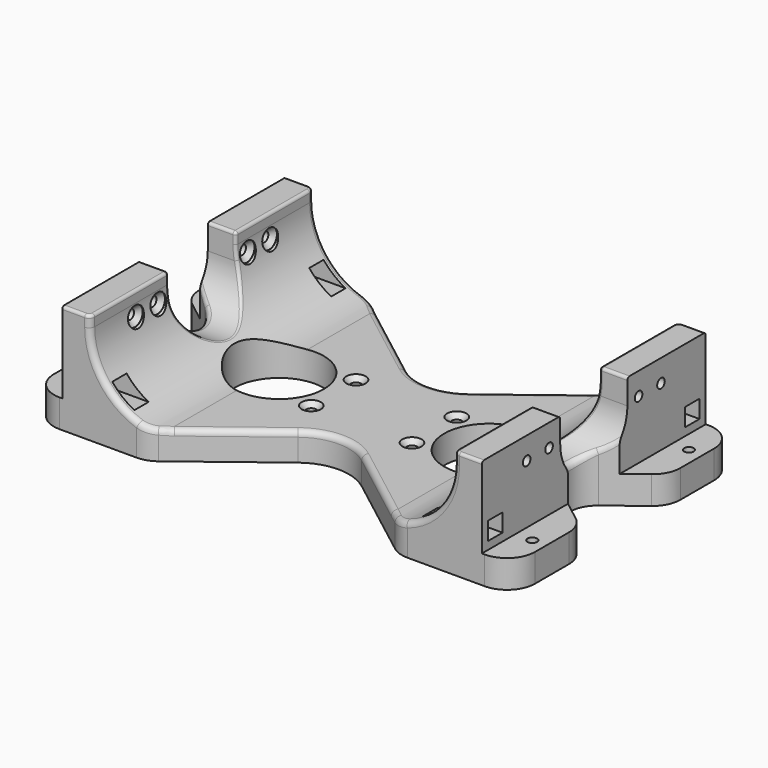
from build123d import *

# Parameters (mm, degrees)
SKETCH_R        = 16
PAD_DEPTH       = 39
SKETCH001_R     = 1.7
SKETCH001_W     = 6.4
SKETCH001_H     = 6.4
POCKET_DEPTH    = 172.001
SKETCH002_W     = 25
SKETCH002_H     = 35
POCKET001_DEPTH = 100
SKETCH003_R     = 1.7
POCKET002_DEPTH = 10.001
SKETCH004_R     = 1.75
POCKET003_DEPTH = 10.001
SKETCH006_R     = 3.5
POCKET005_DEPTH = 5
SKETCH007_R     = 3.5
POCKET006_DEPTH = 5
FILLET_R        = 10
FILLET001_R     = 10
FILLET002_R     = 10
FILLET003_R     = 10
FILLET004_R     = 10
FILLET005_R     = 10
FILLET006_R     = 10
FILLET007_R     = 10
FILLET008_R     = 1
FILLET009_R     = 1
FILLET010_R     = 10
FILLET011_R     = 10
FILLET012_R     = 10
FILLET013_R     = 10
FILLET014_R     = 2
FILLET015_R     = 2
FILLET016_R     = 1
FILLET017_R     = 1
FILLET018_R     = 1
FILLET019_R     = 1
FILLET020_R     = 2
FILLET021_R     = 2
CHAMFER_SIZE    = 1.7
CHAMFER001_SIZE = 1.7
CHAMFER002_SIZE = 1.7
CHAMFER003_SIZE = 1.7
CHAMFER004_SIZE = 1.7
CHAMFER005_SIZE = 1.7
CHAMFER006_SIZE = 1.7
CHAMFER007_SIZE = 1.7
CHAMFER008_SIZE = 1.7
CHAMFER009_SIZE = 1.7
CHAMFER010_SIZE = 1.7
CHAMFER011_SIZE = 1.7
CHAMFER012_SIZE = 1.7
CHAMFER013_SIZE = 1.7
CHAMFER014_SIZE = 1.7
CHAMFER015_SIZE = 1.7


with BuildPart() as part:
    # Sketch → Pad (new body)
    with BuildSketch(Plane.XY):
        with BuildLine():
            Line((-86, 50), (-45, 50))
            Line((-45, 50), (-11.364059, 24.19013))
            ThreePointArc((-11.364059, 24.19013), (0, 20.332539), (11.364059, 24.19013))
            Line((11.364059, 24.19013), (45, 50))
            Line((45, 50), (86, 50))
            Line((86, 50), (86, 20))
            Line((86, 20), (70.361359, 8))
            ThreePointArc((70.361359, 8), (66.416205, 0), (70.361359, -8))
            Line((70.361359, -8), (86, -20))
            Line((86, -20), (86, -50))
            Line((86, -50), (45, -50))
            Line((11.364059, -24.19013), (45, -50))
            ThreePointArc((11.364059, -24.19013), (0, -20.332539), (-11.364059, -24.19013))
            Line((-45, -50), (-11.364059, -24.19013))
            Line((-45, -50), (-86, -50))
            Line((-86, -50), (-86, -20))
            Line((-70.361359, -8), (-86, -20))
            ThreePointArc((-70.361359, -8), (-66.416205, 0), (-70.361359, 8))
            Line((-86, 20), (-70.361359, 8))
            Line((-86, 50), (-86, 20))
        make_face()
        with Locations((-37.5, 0)):
            Circle(SKETCH_R, mode=Mode.SUBTRACT)
        with Locations((37.5, 0)):
            Circle(SKETCH_R, mode=Mode.SUBTRACT)
    extrude(amount=PAD_DEPTH)

    # Sketch001 → Pocket (cut, through all)
    with BuildSketch(Plane(origin=(-86, 0, 0), x_dir=(0, -1, 0), z_dir=(-1, 0, 0))):
        with Locations((-30, 31)):
            Circle(SKETCH001_R)
        with Locations((30, 31)):
            Circle(SKETCH001_R)
        with Locations((20, 31)):
            Circle(SKETCH001_R)
        with Locations((-20, 31)):
            Circle(SKETCH001_R)
        with Locations((-44, 16)):
            Rectangle(SKETCH001_W, SKETCH001_H)
        with Locations((44, 16)):
            Rectangle(SKETCH001_W, SKETCH001_H)
        with BuildLine():
            ThreePointArc((15, 60), (0, 75), (-15, 60))
            Line((-15, 60), (-15, 30))
            ThreePointArc((-15, 30), (0, 15), (15, 30))
            Line((15, 60), (15, 30))
        make_face()
    extrude(amount=-POCKET_DEPTH, mode=Mode.SUBTRACT)

    # Sketch002 → Pocket001 (cut)
    with BuildSketch(Plane.XZ.offset(50)):
        with BuildLine():
            ThreePointArc((-65, 35), (-57.67767, 17.32233), (-40, 10))
            Line((-40, 10), (40, 10))
            ThreePointArc((40, 10), (57.67765, 17.322311), (65, 34.999944))
            Line((65, 40), (65, 34.999944))
            Line((-65, 40), (65, 40))
            Line((-65, 35), (-65, 40))
        make_face()
        with Locations((-87.5, 27.5)):
            Rectangle(SKETCH002_W, SKETCH002_H)
        with Locations((87.5, 27.5)):
            Rectangle(SKETCH002_W, SKETCH002_H)
    extrude(amount=-POCKET001_DEPTH, mode=Mode.SUBTRACT)

    # Sketch003 → Pocket002 (cut, through all)
    with BuildSketch(Plane.XY.offset(10)):
        with Locations((-81, 35)):
            Circle(SKETCH003_R)
        with Locations((-81, -35)):
            Circle(SKETCH003_R)
        with Locations((81, 35)):
            Circle(SKETCH003_R)
        with Locations((81, -35)):
            Circle(SKETCH003_R)
    extrude(amount=-POCKET002_DEPTH, mode=Mode.SUBTRACT)

    # Sketch004 → Pocket003 (cut, through all)
    with BuildSketch(Plane.XY.offset(10)):
        with Locations((-18, 10)):
            Circle(SKETCH004_R)
        with Locations((18, 10)):
            Circle(SKETCH004_R)
        with Locations((-18, -10)):
            Circle(SKETCH004_R)
        with Locations((18, -10)):
            Circle(SKETCH004_R)
    extrude(amount=-POCKET003_DEPTH, mode=Mode.SUBTRACT)

    # Sketch006 → Pocket005 (cut)
    with BuildSketch(Plane(origin=(65, 0, 0), x_dir=(0, -1, 0), z_dir=(-1, 0, 0))):
        with Locations((-30, 31)):
            Circle(SKETCH006_R)
        with Locations((-20, 31)):
            Circle(SKETCH006_R)
        with Locations((20, 31)):
            Circle(SKETCH006_R)
        with Locations((30, 31)):
            Circle(SKETCH006_R)
    extrude(amount=POCKET005_DEPTH, mode=Mode.SUBTRACT)

    # Sketch007 → Pocket006 (cut)
    with BuildSketch(Plane.YZ.offset(-65)):
        with Locations((-30, 31)):
            Circle(SKETCH007_R)
        with Locations((-20, 31)):
            Circle(SKETCH007_R)
        with Locations((20, 31)):
            Circle(SKETCH007_R)
        with Locations((30, 31)):
            Circle(SKETCH007_R)
    extrude(amount=POCKET006_DEPTH, mode=Mode.SUBTRACT)

    # Fillet
    fillet_edges = [part.edges().sort_by_distance(p)[0] for p in [
        (-86, -50, 5),
    ]]
    fillet(fillet_edges, radius=FILLET_R)

    # Fillet001
    fillet001_edges = [part.edges().sort_by_distance(p)[0] for p in [
        (-86, 50, 5),
    ]]
    fillet(fillet001_edges, radius=FILLET001_R)

    # Fillet002
    fillet002_edges = [part.edges().sort_by_distance(p)[0] for p in [
        (86, -50, 5),
    ]]
    fillet(fillet002_edges, radius=FILLET002_R)

    # Fillet003
    fillet003_edges = [part.edges().sort_by_distance(p)[0] for p in [
        (86, 50, 5),
    ]]
    fillet(fillet003_edges, radius=FILLET003_R)

    # Fillet004
    fillet004_edges = [part.edges().sort_by_distance(p)[0] for p in [
        (-86, -20, 5),
    ]]
    fillet(fillet004_edges, radius=FILLET004_R)

    # Fillet005
    fillet005_edges = [part.edges().sort_by_distance(p)[0] for p in [
        (-86, 20, 5),
    ]]
    fillet(fillet005_edges, radius=FILLET005_R)

    # Fillet006
    fillet006_edges = [part.edges().sort_by_distance(p)[0] for p in [
        (86, 20, 5),
    ]]
    fillet(fillet006_edges, radius=FILLET006_R)

    # Fillet007
    fillet007_edges = [part.edges().sort_by_distance(p)[0] for p in [
        (86, -20, 5),
    ]]
    fillet(fillet007_edges, radius=FILLET007_R)

    # Fillet008
    fillet008_edges = [part.edges().sort_by_distance(p)[0] for p in [
        (59.54778, -10.628413, 19.415255),
    ]]
    fillet(fillet008_edges, radius=FILLET008_R)

    # Fillet009
    fillet009_edges = [part.edges().sort_by_distance(p)[0] for p in [
        (-59.54778, -10.628413, 19.415255),
    ]]
    fillet(fillet009_edges, radius=FILLET009_R)

    # Fillet010
    fillet010_edges = [part.edges().sort_by_distance(p)[0] for p in [
        (45, 50, 5.252551),
    ]]
    fillet(fillet010_edges, radius=FILLET010_R)

    # Fillet011
    fillet011_edges = [part.edges().sort_by_distance(p)[0] for p in [
        (-45, 50, 5.252551),
    ]]
    fillet(fillet011_edges, radius=FILLET011_R)

    # Fillet012
    fillet012_edges = [part.edges().sort_by_distance(p)[0] for p in [
        (-45, -50, 5.252551),
    ]]
    fillet(fillet012_edges, radius=FILLET012_R)

    # Fillet013
    fillet013_edges = [part.edges().sort_by_distance(p)[0] for p in [
        (45, -50, 5.252551),
    ]]
    fillet(fillet013_edges, radius=FILLET013_R)

    # Fillet014
    fillet014_edges = [part.edges().sort_by_distance(p)[0] for p in [
        (0, -20.332539, 10),
    ]]
    fillet(fillet014_edges, radius=FILLET014_R)

    # Fillet015
    fillet015_edges = [part.edges().sort_by_distance(p)[0] for p in [
        (0, 20.332539, 10),
    ]]
    fillet(fillet015_edges, radius=FILLET015_R)

    # Fillet016
    fillet016_edges = [part.edges().sort_by_distance(p)[0] for p in [
        (65, 32, 39),
    ]]
    fillet(fillet016_edges, radius=FILLET016_R)

    # Fillet017
    fillet017_edges = [part.edges().sort_by_distance(p)[0] for p in [
        (65, -32, 39),
    ]]
    fillet(fillet017_edges, radius=FILLET017_R)

    # Fillet018
    fillet018_edges = [part.edges().sort_by_distance(p)[0] for p in [
        (-65, -32, 39),
    ]]
    fillet(fillet018_edges, radius=FILLET018_R)

    # Fillet019
    fillet019_edges = [part.edges().sort_by_distance(p)[0] for p in [
        (-65, 32, 39),
    ]]
    fillet(fillet019_edges, radius=FILLET019_R)

    # Fillet020
    fillet020_edges = [part.edges().sort_by_distance(p)[0] for p in [
        (-67.502964, -4.553707, 15.707913),
    ]]
    fillet(fillet020_edges, radius=FILLET020_R)

    # Fillet021
    fillet021_edges = [part.edges().sort_by_distance(p)[0] for p in [
        (66.416205, 0, 15),
    ]]
    fillet(fillet021_edges, radius=FILLET021_R)

    # Chamfer
    chamfer_edges = [part.edges().sort_by_distance(p)[0] for p in [
        (-19.75, -10, 10),
    ]]
    chamfer(chamfer_edges, length=CHAMFER_SIZE)

    # Chamfer001
    chamfer001_edges = [part.edges().sort_by_distance(p)[0] for p in [
        (-19.75, 10, 10),
    ]]
    chamfer(chamfer001_edges, length=CHAMFER001_SIZE)

    # Chamfer002
    chamfer002_edges = [part.edges().sort_by_distance(p)[0] for p in [
        (16.25, -10, 10),
    ]]
    chamfer(chamfer002_edges, length=CHAMFER002_SIZE)

    # Chamfer003
    chamfer003_edges = [part.edges().sort_by_distance(p)[0] for p in [
        (16.25, 10, 10),
    ]]
    chamfer(chamfer003_edges, length=CHAMFER003_SIZE)

    # Chamfer004
    chamfer004_edges = [part.edges().sort_by_distance(p)[0] for p in [
        (79.3, 35, 0),
    ]]
    chamfer(chamfer004_edges, length=CHAMFER004_SIZE)

    # Chamfer005
    chamfer005_edges = [part.edges().sort_by_distance(p)[0] for p in [
        (-82.7, 35, 0),
    ]]
    chamfer(chamfer005_edges, length=CHAMFER005_SIZE)

    # Chamfer006
    chamfer006_edges = [part.edges().sort_by_distance(p)[0] for p in [
        (79.3, -35, 0),
    ]]
    chamfer(chamfer006_edges, length=CHAMFER006_SIZE)

    # Chamfer007
    chamfer007_edges = [part.edges().sort_by_distance(p)[0] for p in [
        (-82.7, -35, 0),
    ]]
    chamfer(chamfer007_edges, length=CHAMFER007_SIZE)

    # Chamfer008
    chamfer008_edges = [part.edges().sort_by_distance(p)[0] for p in [
        (-65, -28.3, 31),
    ]]
    chamfer(chamfer008_edges, length=CHAMFER008_SIZE)

    # Chamfer009
    chamfer009_edges = [part.edges().sort_by_distance(p)[0] for p in [
        (-65, -18.3, 31),
    ]]
    chamfer(chamfer009_edges, length=CHAMFER009_SIZE)

    # Chamfer010
    chamfer010_edges = [part.edges().sort_by_distance(p)[0] for p in [
        (-65, 21.7, 31),
    ]]
    chamfer(chamfer010_edges, length=CHAMFER010_SIZE)

    # Chamfer011
    chamfer011_edges = [part.edges().sort_by_distance(p)[0] for p in [
        (-65, 31.7, 31),
    ]]
    chamfer(chamfer011_edges, length=CHAMFER011_SIZE)

    # Chamfer012
    chamfer012_edges = [part.edges().sort_by_distance(p)[0] for p in [
        (65, 31.7, 31),
    ]]
    chamfer(chamfer012_edges, length=CHAMFER012_SIZE)

    # Chamfer013
    chamfer013_edges = [part.edges().sort_by_distance(p)[0] for p in [
        (65, 21.7, 31),
    ]]
    chamfer(chamfer013_edges, length=CHAMFER013_SIZE)

    # Chamfer014
    chamfer014_edges = [part.edges().sort_by_distance(p)[0] for p in [
        (65, -18.3, 31),
    ]]
    chamfer(chamfer014_edges, length=CHAMFER014_SIZE)

    # Chamfer015
    chamfer015_edges = [part.edges().sort_by_distance(p)[0] for p in [
        (65, -28.3, 31),
    ]]
    chamfer(chamfer015_edges, length=CHAMFER015_SIZE)


solid = part.part
